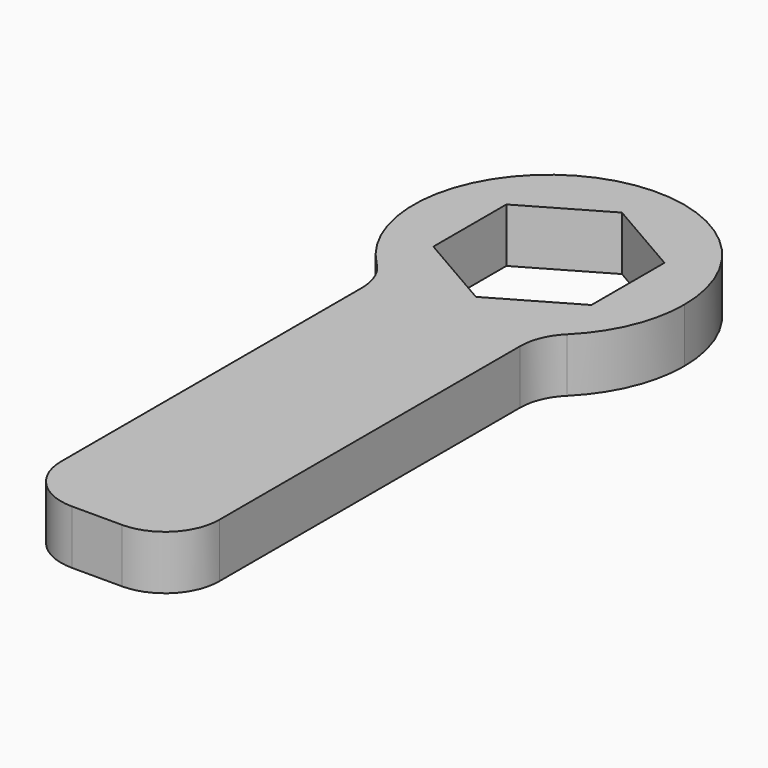
from build123d import *

# Parameters (mm, degrees)
F1_DEPTH = 10
F2_R     = 10
F3_R     = 10


with BuildPart() as f1:
    # F0 (on Top) → F1 (new body)
    with BuildSketch(Plane.XY):
        with BuildLine():
            Line((-14.6, -8.429314), (-14.6, -20.293841))
            ThreePointArc((-14.6, -20.293841), (0, -25), (14.6, -20.293841))
            Line((14.6, -20.293841), (14.6, -8.429314))
            Line((14.6, -8.429314), (0, -16.858628))
            Line((0, -16.858628), (-14.6, -8.429314))
        make_face()
        with BuildLine():
            ThreePointArc((14.6, -20.293841), (22.248595, -11.401754), (25, 0))
            ThreePointArc((25, 0), (-11.401754, 22.248595), (-14.6, -20.293841))
            Line((-14.6, -20.293841), (-14.6, -8.429314))
            Line((-14.6, -8.429314), (-14.6, 8.429314))
            Line((-14.6, 8.429314), (0, 16.858628))
            Line((0, 16.858628), (14.6, 8.429314))
            Line((14.6, 8.429314), (14.6, -8.429314))
            Line((14.6, -8.429314), (14.6, -20.293841))
        make_face()
        with BuildLine():
            ThreePointArc((14.6, -20.293841), (0, -25), (-14.6, -20.293841))
            Line((-14.6, -20.293841), (-14.6, -104.361953))
            Line((-14.6, -104.361953), (14.6, -104.361953))
            Line((14.6, -104.361953), (14.6, -20.293841))
        make_face()
    extrude(amount=F1_DEPTH)

    # F2
    f2_edges = [f1.edges().sort_by_distance(p)[0] for p in [
        (14.6, -20.293841, 5),
    ]]
    fillet(f2_edges, radius=F2_R)

    # F3
    f3_edges = [f1.edges().sort_by_distance(p)[0] for p in [
        (-14.6, -20.293841, 5),
        (-14.6, -104.361953, 5),
        (14.6, -104.361953, 5),
    ]]
    fillet(f3_edges, radius=F3_R)


solid = f1.part
